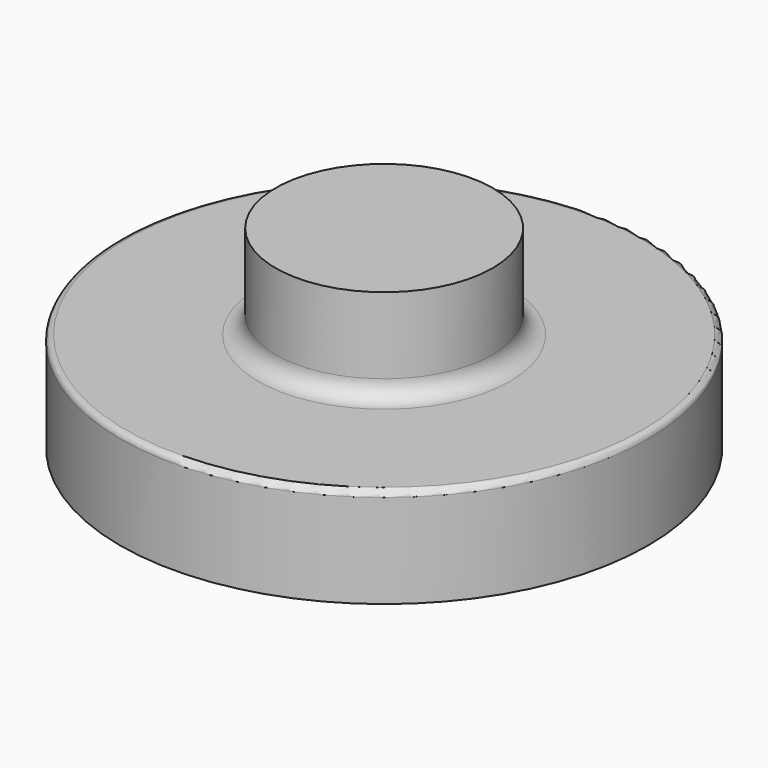
from build123d import *

# Parameters (mm, degrees)
F2_R = 1.5
F3_R = 0.5


with BuildPart() as f1:
    # F0 (on Front) → F1 (revolve)
    with BuildSketch(Plane.XZ):
        Polygon((0, 16.5), (0, 13), (6.25, 13), (6.25, 6), (20, 6), (20, 0), (22.5, 0), (22.5, 8.5), (9.25, 8.5), (9.25, 16.5), align=None)
    revolve(axis=Axis((0, 0, 14.75), (0, 0, 1)))

    # F2
    f2_edges = [f1.edges().sort_by_distance(p)[0] for p in [
        (-9.25, 0, 8.5),
    ]]
    fillet(f2_edges, radius=F2_R)

    # F3
    f3_edges = [f1.edges().sort_by_distance(p)[0] for p in [
        (-22.5, 0, 8.5),
    ]]
    fillet(f3_edges, radius=F3_R)


solid = f1.part
